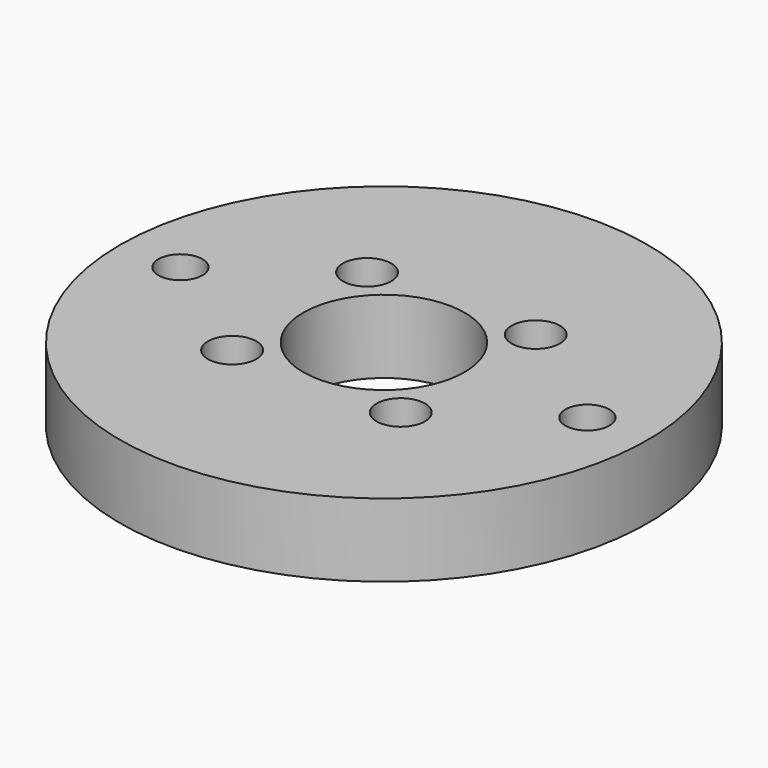
from build123d import *

# Parameters (mm, degrees)
F1_DEPTH = 5
F2_D     = 3
F2_DEPTH = 6
F2_TIP   = 0.9012909285
F3_D     = 3.3
F3_DEPTH = 6
F3_TIP   = 0.9914200214
F4_D     = 11
F4_DEPTH = 11
F4_TIP   = 3.3047334047


with BuildPart() as f1:
    # F0 (on Top) → F1 (new body)
    with BuildSketch(Plane.XY):
        with BuildLine():
            Line((9.75, 0), (18, 0))
            ThreePointArc((18, 0), (0, 18), (-18, 0))
            Line((-18, 0), (-9.75, 0))
            ThreePointArc((-9.75, 0), (0, 9.75), (9.75, 0))
        make_face()
        with BuildLine():
            ThreePointArc((-18, 0), (0, -18), (18, 0))
            Line((18, 0), (9.75, 0))
            ThreePointArc((9.75, 0), (0, -9.75), (-9.75, 0))
            Line((-9.75, 0), (-18, 0))
        make_face()
        with BuildLine():
            ThreePointArc((-9.75, 0), (0, -9.75), (9.75, 0))
            ThreePointArc((9.75, 0), (0, 9.75), (-9.75, 0))
        make_face()
    extrude(amount=F1_DEPTH)

    # F2
    with Locations(Plane(origin=(0, 0, 0), x_dir=(1, 0, 0), z_dir=(0, 0, -1))):
        with Locations((13.875, 0), (-13.875, 0)):
            Hole(F2_D / 2, depth=F2_DEPTH)
            with Locations((0, 0, -(F2_DEPTH + F2_TIP / 2))):  # 118° drill point
                Cone(0, F2_D / 2, F2_TIP, mode=Mode.SUBTRACT)

    # F3
    with Locations(Plane(origin=(0, 0, 0), x_dir=(1, 0, 0), z_dir=(0, 0, -1))):
        with Locations((5.75, -5.75), (5.75, 5.75), (-5.75, 5.75), (-5.75, -5.75)):
            Hole(F3_D / 2, depth=F3_DEPTH)
            with Locations((0, 0, -(F3_DEPTH + F3_TIP / 2))):  # 118° drill point
                Cone(0, F3_D / 2, F3_TIP, mode=Mode.SUBTRACT)

    # F4
    with Locations(Plane(origin=(0, 0, 0), x_dir=(1, 0, 0), z_dir=(0, 0, -1))):
        with Locations((0, 0)):
            Hole(F4_D / 2, depth=F4_DEPTH)
            with Locations((0, 0, -(F4_DEPTH + F4_TIP / 2))):  # 118° drill point
                Cone(0, F4_D / 2, F4_TIP, mode=Mode.SUBTRACT)


solid = f1.part
